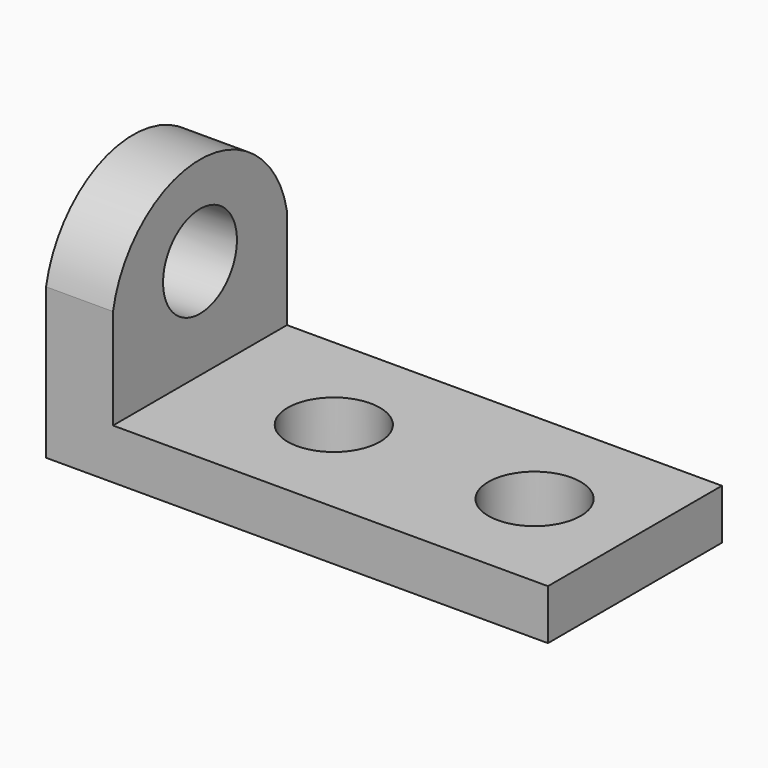
from build123d import *

# Parameters (mm, degrees)
F0_W     = 190.5
F0_H     = 82.55
F0_R     = 17.526
F1_DEPTH = 19.05
F2_W     = 82.55
F2_H     = 57.15
F3_DEPTH = 25.4
F4_R     = 17.526
F5_DEPTH = 25.4


with BuildPart() as f1:
    # F0 (on Top) → F1 (new body)
    with BuildSketch(Plane.XY):
        with Locations((-30.811098, 9.839004)):
            Rectangle(F0_W, F0_H)
        with Locations((-49.861098, 9.839004)):
            Circle(F0_R, mode=Mode.SUBTRACT)
        with Locations((26.338902, 9.839004)):
            Circle(F0_R, mode=Mode.SUBTRACT)
    extrude(amount=-F1_DEPTH)

    # F2 (on face) → F3 (join)
    with BuildSketch(Plane(origin=(-126.061098, 0, 0), x_dir=(0, -1, 0), z_dir=(-1, 0, 0))):
        with Locations((-9.839004, 9.525)):
            Rectangle(F2_W, F2_H)
        with BuildLine():
            ThreePointArc((31.435996, 38.1), (-9.839004, 72.125149), (-51.114004, 38.1))
            Line((-51.114004, 38.1), (31.435996, 38.1))
        make_face()
    extrude(amount=-F3_DEPTH)

    # F4 (on face) → F5 (cut)
    with BuildSketch(Plane(origin=(-126.061098, 0, 0), x_dir=(0, -1, 0), z_dir=(-1, 0, 0))):
        with Locations((-9.839004, 38.1)):
            Circle(F4_R)
    extrude(amount=-F5_DEPTH, mode=Mode.SUBTRACT)


solid = f1.part
